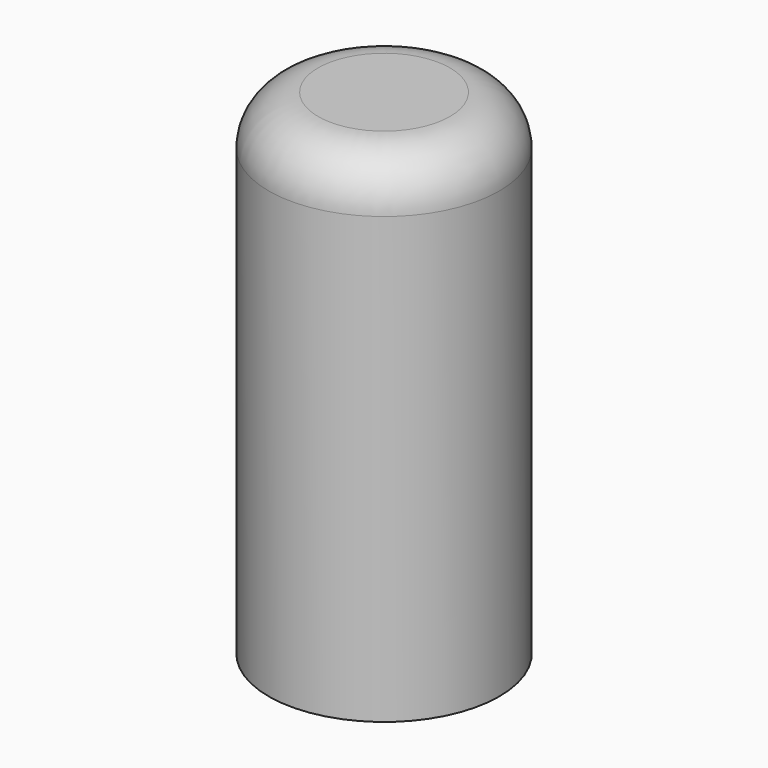
from build123d import *

# Parameters (mm, degrees)
F0_R     = 3.5
F1_DEPTH = 15
F2_R     = 1.5
F3_SCALE = 0.5


with BuildPart() as f1:
    # F0 (on Top) → F1 (new body)
    with BuildSketch(Plane.XY):
        Circle(F0_R)
    extrude(amount=F1_DEPTH)

    # F2
    f2_edges = [f1.edges().sort_by_distance(p)[0] for p in [
        (-3.5, 0, 15),
    ]]
    fillet(f2_edges, radius=F2_R)


with BuildPart() as f1_1:
    # F3: moved
    add(f1.part.scale(F3_SCALE))


solid = f1_1.part
